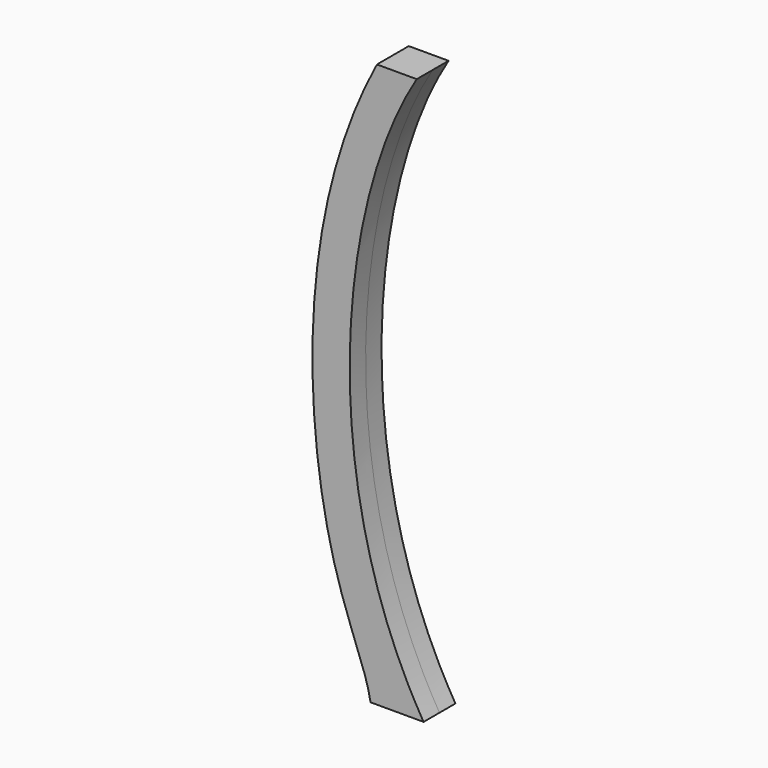
from build123d import *

# Parameters (mm, degrees)
F1_DEPTH = 76.2


with BuildPart() as f1:
    # F0 (on Front) → F1 (new body, symmetric)
    with BuildSketch(Plane.XZ):
        with BuildLine():
            add(Edge.make_bspline(
                [(-945.5808670162, 965.2), (-1242.0630128025, 484.7582280636), (-1340.5170440674, -494.4096505642), (-919.226, -1193.8)],
                knots=[0, 0, 0, 0, 2159.1608506583, 2159.1608506583, 2159.1608506583, 2159.1608506583], degree=3))
            Line((-945.5808670162, 965.2), (-1097.9808670162, 965.2))
            add(Edge.make_bspline(
                [(-1097.9808670162, 965.2), (-1417.2196388245, 366.0375773907), (-1348.5663086676, -720.7227352137), (-1140.6033039093, -1081.5900564194), (-1122.426, -1193.8)],
                knots=[0, 0, 0, 0, 0.6575295809, 1, 1, 1, 1], degree=3))
            Line((-1122.426, -1193.8), (-919.226, -1193.8))
        make_face()
    extrude(amount=F1_DEPTH, both=True)


solid = f1.part
